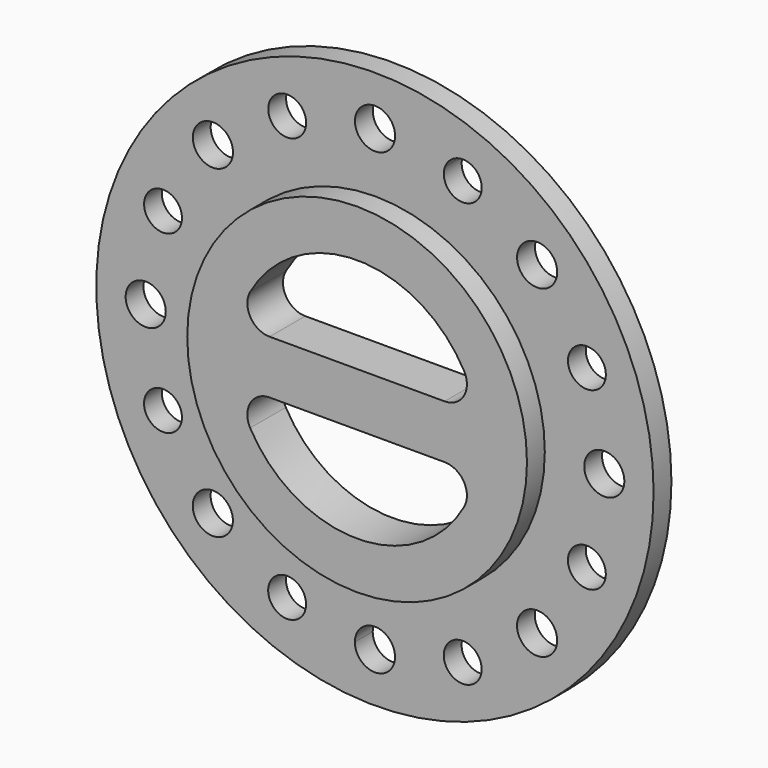
from build123d import *

# Parameters (mm, degrees)
F0_R     = 125
F0_R_2   = 9
F0_R_3   = 8.5
F0_R_4   = 76.2
F1_DEPTH = 10
F2_R     = 76.2
F3_DEPTH = 20
F5_DEPTH = 25


with BuildPart() as f1:
    # F0 (on Front) → F1 (new body)
    with BuildSketch(Plane.XZ):
        Circle(F0_R)
        with Locations((-72.7218686646, -72.6661291665)):
            Circle(F0_R_2, mode=Mode.SUBTRACT)
        with Locations((-39.3963481099, -95.0596536687)):
            Circle(F0_R_3, mode=Mode.SUBTRACT)
        with Locations((-95.0747506288, -39.3599008239)):
            Circle(F0_R_3, mode=Mode.SUBTRACT)
        with Locations((0, -102.8524214745)):
            Circle(F0_R_2, mode=Mode.SUBTRACT)
        with Locations((0, -102.8048467248)):
            Circle(F0_R_2, mode=Mode.SUBTRACT)
        with Locations((39.3599008239, -95.0747506288)):
            Circle(F0_R_3, mode=Mode.SUBTRACT)
        with Locations((72.733418035, -72.6940118133)):
            Circle(F0_R_2, mode=Mode.SUBTRACT)
        with Locations((95.0596536687, -39.3963481099)):
            Circle(F0_R_3, mode=Mode.SUBTRACT)
        with Locations((-102.8327035761, 0.0672888685)):
            Circle(F0_R_2, mode=Mode.SUBTRACT)
        with Locations((-95.0596536687, 39.3963481099)):
            Circle(F0_R_3, mode=Mode.SUBTRACT)
        with Locations((-72.6939860178, 72.7891575331)):
            Circle(F0_R_2, mode=Mode.SUBTRACT)
        with Locations((-39.3599008239, 95.0747506288)):
            Circle(F0_R_3, mode=Mode.SUBTRACT)
        Circle(F0_R_4, mode=Mode.SUBTRACT)
        with Locations((102.8721355934, 0.0278568513)):
            Circle(F0_R_2, mode=Mode.SUBTRACT)
        with Locations((95.0747506288, 39.3599008239)):
            Circle(F0_R_3, mode=Mode.SUBTRACT)
        with BuildLine():
            ThreePointArc((9.0394320172, 102.8999924447), (9.0372413226, 102.7014283411), (9.0306703054, 102.5029609028))
            ThreePointArc((9.0306703054, 102.5029609028), (-8.9583772882, 103.0985565482), (9.0394320172, 102.8999924447))
        make_face(mode=Mode.SUBTRACT)
        with BuildLine():
            ThreePointArc((47.8963481099, 95.0596536687), (47.6968165425, 93.2287457523), (47.1075895691, 91.4837964067))
            ThreePointArc((47.1075895691, 91.4837964067), (36.1420336402, 87.2073013248), (31.4162857275, 97.9868715241))
            ThreePointArc((31.4162857275, 97.9868715241), (40.8828658107, 103.4286598895), (47.8963481099, 95.0596536687))
        make_face(mode=Mode.SUBTRACT)
        with BuildLine():
            ThreePointArc((66.1251217448, 78.84084141), (76.0227719424, 81.1495288892), (81.7613006818, 72.7612748864))
            ThreePointArc((81.7613006818, 72.7612748864), (69.4998294213, 64.3730208835), (66.1251217448, 78.84084141))
        make_face(mode=Mode.SUBTRACT)
    extrude(amount=F1_DEPTH)

    # F2 (on Front) → F3 (join)
    with BuildSketch(Plane.XZ):
        Circle(F2_R)
    extrude(amount=F3_DEPTH)

    # F4 (on face) → F5 (cut)
    with BuildSketch(Plane.XZ.offset(20)):
        with BuildLine():
            ThreePointArc((-47.9790334867, 26.8888888889), (-47.8836922565, 16.944749704), (-39.2555728528, 12))
            Line((-39.2555728528, 12), (39.2555728528, 12))
            ThreePointArc((39.2555728528, 12), (47.8836922565, 16.944749704), (47.9790334867, 26.8888888889))
            ThreePointArc((47.9790334867, 26.8888888889), (0, 55), (-47.9790334867, 26.8888888889))
        make_face()
        with BuildLine():
            ThreePointArc((-39.2555728528, -12), (-47.8836922565, -16.944749704), (-47.9790334867, -26.8888888889))
            ThreePointArc((-47.9790334867, -26.8888888889), (0, -55), (47.9790334867, -26.8888888889))
            ThreePointArc((47.9790334867, -26.8888888889), (47.8836922565, -16.944749704), (39.2555728528, -12))
            Line((39.2555728528, -12), (-39.2555728528, -12))
        make_face()
    extrude(amount=-F5_DEPTH, mode=Mode.SUBTRACT)


solid = f1.part
